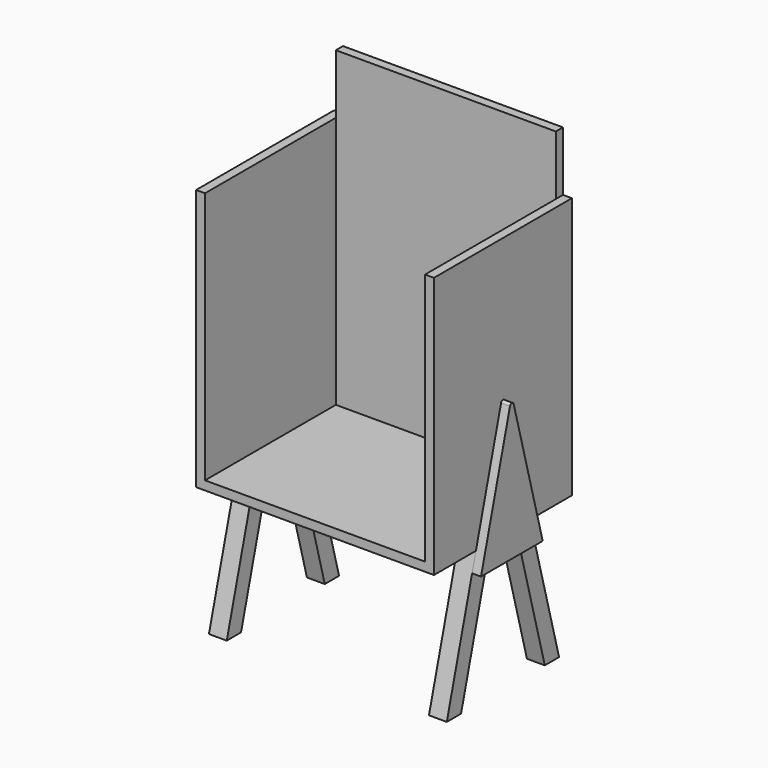
from build123d import *

# Parameters (mm, degrees)
F0_W      = 368.3
F0_H      = 558.8
F1_DEPTH  = 508
F2_T      = -19.05
F3_W      = 469.9
F3_H      = 19.05
F4_DEPTH  = 127
F6_DEPTH  = 38.1
F8_DEPTH  = 38.1
F10_DEPTH = 508
F12_DEPTH = 19.05
F14_DEPTH = 19.05
F15_R     = 5.08
F16_R     = 5.08


with BuildPart() as f1:
    # F0 (on Right) → F1 (new body)
    with BuildSketch(Plane.YZ):
        with Locations((-55.497904, 182.097384)):
            Rectangle(F0_W, F0_H)
    extrude(amount=F1_DEPTH)

    # F2
    f2_openings = [f1.faces().sort_by_distance(p)[0] for p in [
        (254, -55.497904, 461.497384),
        (254, -239.647904, 182.097384),
    ]]
    offset(amount=F2_T, openings=f2_openings)

    # F3 (on face) → F4 (join)
    with BuildSketch(Plane.XY.offset(461.497384)):
        with Locations((254, 119.127096)):
            Rectangle(F3_W, F3_H)
    extrude(amount=F4_DEPTH)


with BuildPart() as f6:
    # F5 (on face) → F6 (new body)
    with BuildSketch(Plane.YZ.offset(508)):
        Polygon((16.631643, -97.302616), (-21.468357, -97.302616), (56.260159, -387.389387), (94.360159, -387.389387), align=None)
        Polygon((-127.627452, -97.302616), (-205.355968, -387.389387), (-167.255968, -387.389387), (-89.527452, -97.302616), align=None)
    extrude(amount=-F6_DEPTH)


with BuildPart() as f8:
    # F7 (on face) → F8 (new body)
    with BuildSketch(Plane(origin=(0, 0, 0), x_dir=(0, -1, 0), z_dir=(-1, 0, 0))):
        Polygon((-16.631643, -97.302616), (-94.360159, -387.389387), (-56.260159, -387.389387), (21.468357, -97.302616), align=None)
        Polygon((127.627452, -97.302616), (89.527452, -97.302616), (167.255968, -387.389387), (205.355968, -387.389387), align=None)
    extrude(amount=-F8_DEPTH)


with BuildPart() as f10:
    # F9 (on face) → F10 (new body, through all)
    with BuildSketch(Plane.YZ.offset(508)):
        Polygon((-21.468357, -97.302616), (-89.527452, -97.302616), (-99.736316, -135.402616), (-11.259493, -135.402616), align=None)
    extrude(amount=-F10_DEPTH)


with BuildPart() as f12:
    # F11 (on face) → F12 (new body)
    with BuildSketch(Plane(origin=(0, 0, 0), x_dir=(0, -1, 0), z_dir=(-1, 0, 0))):
        Polygon((-26.840507, -135.402616), (11.259493, -135.402616), (99.736316, -135.402616), (137.836316, -135.402616), (127.627452, -97.302616), (92.668365, 33.166474), (55.497904, 171.88852), (-16.631643, -97.302616), align=None)
    extrude(amount=F12_DEPTH)

    # F16
    f16_edges = [f12.edges().sort_by_distance(p)[0] for p in [
        (-9.525, -55.497904, 171.88852),
    ]]
    fillet(f16_edges, radius=F16_R)


with BuildPart() as f14:
    # F13 (on face) → F14 (new body)
    with BuildSketch(Plane.YZ.offset(508)):
        Polygon((26.840507, -135.402616), (-55.497904, 171.88852), (-137.836316, -135.402616), (-99.736316, -135.402616), (-11.259493, -135.402616), align=None)
    extrude(amount=F14_DEPTH)

    # F15
    f15_edges = [f14.edges().sort_by_distance(p)[0] for p in [
        (517.525, -55.497904, 171.88852),
    ]]
    fillet(f15_edges, radius=F15_R)


solid = Compound([f1.part, f6.part, f8.part, f10.part, f12.part, f14.part])
